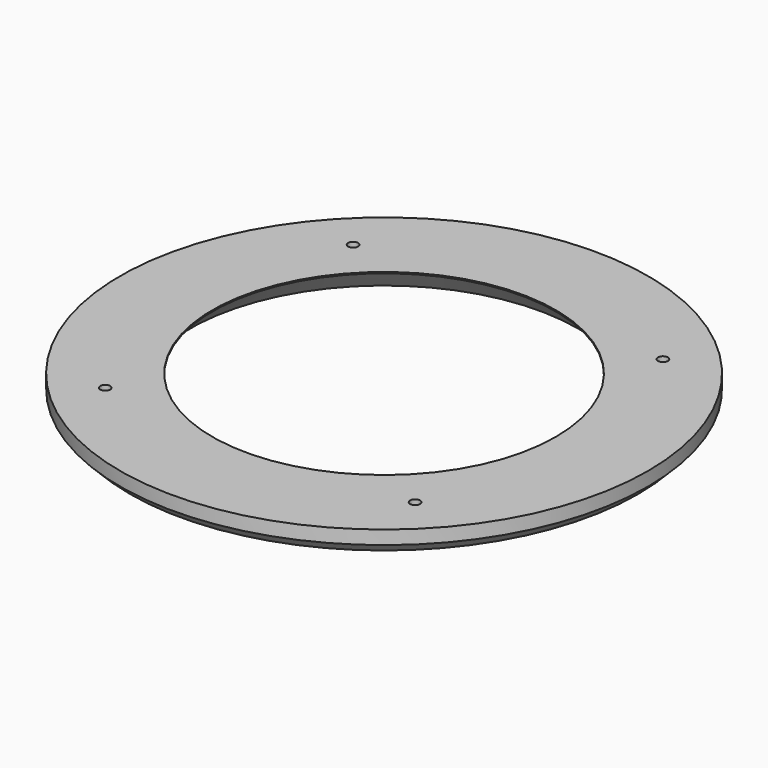
from build123d import *

# Parameters (mm, degrees)
SKETCH025_R     = 106.066017
SKETCH025_R_2   = 2
SKETCH025_R_3   = 69
PAD011_DEPTH    = 9.5
SKETCH026_R     = 100
SKETCH026_R_2   = 82
POCKET004_DEPTH = 7.5
CHAMFER012_SIZE = 9
CHAMFER013_SIZE = 4


with BuildPart() as part:
    # Sketch025 → Pad011 (new body)
    with BuildSketch(Plane.XY):
        Circle(SKETCH025_R)
        with Locations((-62.25, 62.25)):
            Circle(SKETCH025_R_2, mode=Mode.SUBTRACT)
        with Locations((62.25, 62.25)):
            Circle(SKETCH025_R_2, mode=Mode.SUBTRACT)
        with Locations((62.25, -62.25)):
            Circle(SKETCH025_R_2, mode=Mode.SUBTRACT)
        with Locations((-62.25, -62.25)):
            Circle(SKETCH025_R_2, mode=Mode.SUBTRACT)
        Circle(SKETCH025_R_3, mode=Mode.SUBTRACT)
    extrude(amount=PAD011_DEPTH)

    # Sketch026 → Pocket004 (cut)
    with BuildSketch(Plane.XY):
        Circle(SKETCH026_R)
        Circle(SKETCH026_R_2, mode=Mode.SUBTRACT)
    extrude(amount=POCKET004_DEPTH, mode=Mode.SUBTRACT)

    # Chamfer012
    chamfer012_edges = [part.edges().sort_by_distance(p)[0] for p in [
        (-69, 0, 0),
    ]]
    chamfer(chamfer012_edges, length=CHAMFER012_SIZE)

    # Chamfer013
    chamfer013_edges = [part.edges().sort_by_distance(p)[0] for p in [
        (-106.066017, 0, 0),
    ]]
    chamfer(chamfer013_edges, length=CHAMFER013_SIZE)


with BuildPart() as part_1:
    # Body009 placement: moved
    add(part.part.moved(Location((0, 0, 35))))


solid = part_1.part
